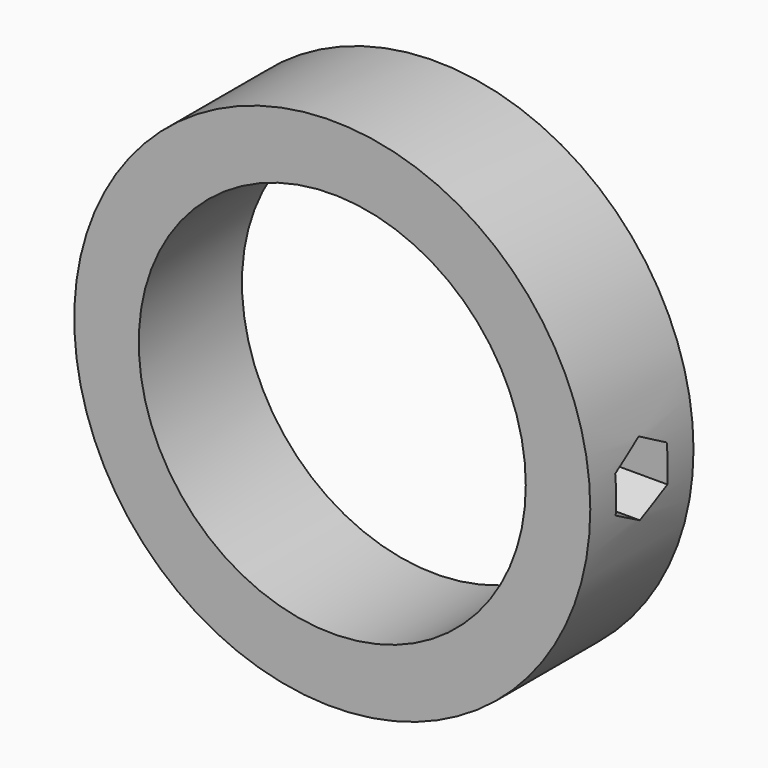
from build123d import *

# Parameters (mm, degrees)
F0_R     = 40
F1_DEPTH = 10
F2_R     = 30
F3_DEPTH = 20
F5_DEPTH = 60


with BuildPart() as f1:
    # F0 (on Front) → F1 (new body, symmetric)
    with BuildSketch(Plane.XZ):
        Circle(F0_R)
    extrude(amount=F1_DEPTH, both=True)

    # F2 (on face) → F3 (cut, through all)
    with BuildSketch(Plane.XZ.offset(10)):
        Circle(F2_R)
    extrude(amount=-F3_DEPTH, mode=Mode.SUBTRACT)

    # F4 (on Right) → F5 (cut)
    with BuildSketch(Plane.YZ):
        Polygon((4.943565, 2.982364), (-0.111021, 5.772435), (-5.054586, 2.790071), (-4.943565, -2.982364), (0.111021, -5.772435), (5.054586, -2.790071), align=None)
    extrude(amount=F5_DEPTH, mode=Mode.SUBTRACT)


solid = f1.part
